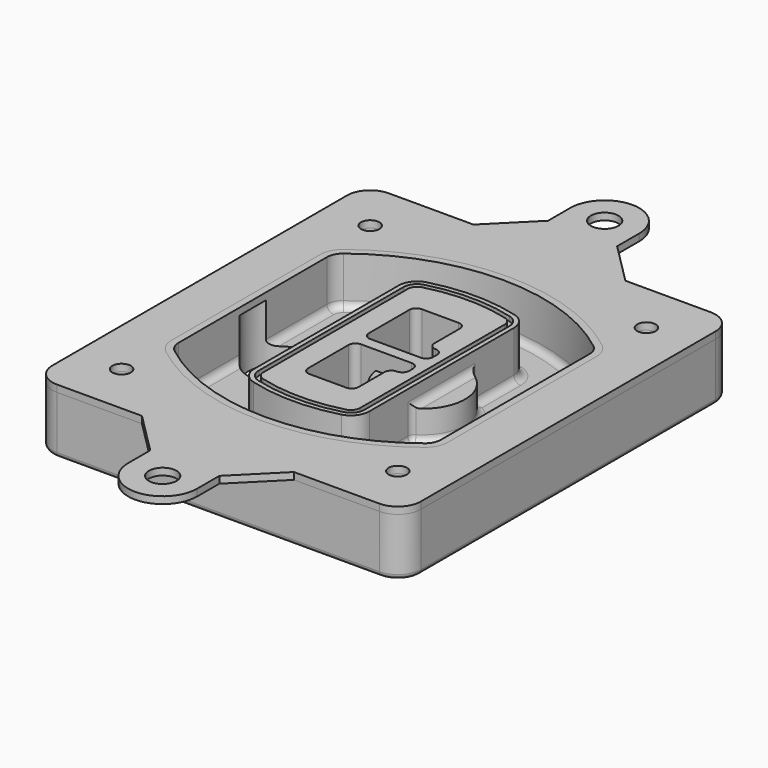
from build123d import *

# Parameters (mm, degrees)
F0_R      = 4
F1_DEPTH  = 25
F2_DEPTH  = 3
F3_DEPTH  = 18
F5_DEPTH  = 21
F6_DEPTH  = 2
F8_DEPTH  = 20
F9_DEPTH  = 16
F10_DEPTH = 25
F7_R      = 6
F7_R_2    = 4
F11_DEPTH = 6
F13_DEPTH = 9
F14_R     = 3
F15_R     = 2
F16_R     = 6
F16_R_2   = 4
F17_DEPTH = 3


with BuildPart() as f1:
    # F0 (on Top) → F1 (new body)
    with BuildSketch(Plane.XY):
        with BuildLine():
            ThreePointArc((-80, -80), (-77.0710678119, -87.0710678119), (-70, -90))
            Line((-70, -90), (70, -90))
            ThreePointArc((70, -90), (77.0710678119, -87.0710678119), (80, -80))
            Line((80, -80), (80, 80))
            ThreePointArc((80, 80), (77.0710678119, 87.0710678119), (70, 90))
            Line((70, 90), (-70, 90))
            ThreePointArc((-70, 90), (-77.0710678119, 87.0710678119), (-80, 80))
            Line((-80, 80), (-80, -80))
        make_face()
        with Locations((-60, -67.5)):
            Circle(F0_R, mode=Mode.SUBTRACT)
        with Locations((60, -67.5)):
            Circle(F0_R, mode=Mode.SUBTRACT)
        with Locations((-60, 67.5)):
            Circle(F0_R, mode=Mode.SUBTRACT)
        with BuildLine():
            ThreePointArc((-64, 40.2934422872), (-62.5820384798, 46.4328484224), (-58.6153846154, 51.3286200352))
            ThreePointArc((-58.6153846154, 51.3286200352), (0, 71.5), (58.6153846154, 51.3286200352))
            ThreePointArc((58.6153846154, 51.3286200352), (62.5820384798, 46.4328484224), (64, 40.2934422872))
            Line((64, 40.2934422872), (64, -40.2934422872))
            ThreePointArc((64, -40.2934422872), (62.5820384798, -46.4328484224), (58.6153846154, -51.3286200352))
            ThreePointArc((58.6153846154, -51.3286200352), (0, -71.5), (-58.6153846154, -51.3286200352))
            ThreePointArc((-58.6153846154, -51.3286200352), (-62.5820384798, -46.4328484224), (-64, -40.2934422872))
            Line((-64, -40.2934422872), (-64, 40.2934422872))
        make_face(mode=Mode.SUBTRACT)
        with Locations((60, 67.5)):
            Circle(F0_R, mode=Mode.SUBTRACT)
        with BuildLine():
            ThreePointArc((58.6153846154, 51.3286200352), (0, 71.5), (-58.6153846154, 51.3286200352))
            ThreePointArc((-58.6153846154, 51.3286200352), (-62.5820384798, 46.4328484224), (-64, 40.2934422872))
            Line((-64, 40.2934422872), (-64, -40.2934422872))
            ThreePointArc((-64, -40.2934422872), (-62.5820384798, -46.4328484224), (-58.6153846154, -51.3286200352))
            ThreePointArc((-58.6153846154, -51.3286200352), (0, -71.5), (58.6153846154, -51.3286200352))
            ThreePointArc((58.6153846154, -51.3286200352), (62.5820384798, -46.4328484224), (64, -40.2934422872))
            Line((64, -40.2934422872), (64, 40.2934422872))
            ThreePointArc((64, 40.2934422872), (62.5820384798, 46.4328484224), (58.6153846154, 51.3286200352))
        make_face()
        with BuildLine():
            Line((-60, -40.2934422872), (-60, 40.2934422872))
            ThreePointArc((-60, 40.2934422872), (-58.9871703427, 44.6787323838), (-56.1538461538, 48.1757121072))
            ThreePointArc((-56.1538461538, 48.1757121072), (0, 67.5), (56.1538461538, 48.1757121072))
            ThreePointArc((56.1538461538, 48.1757121072), (58.9871703427, 44.6787323838), (60, 40.2934422872))
            Line((60, 40.2934422872), (60, -40.2934422872))
            ThreePointArc((60, -40.2934422872), (58.9871703427, -44.6787323838), (56.1538461538, -48.1757121072))
            ThreePointArc((56.1538461538, -48.1757121072), (0, -67.5), (-56.1538461538, -48.1757121072))
            ThreePointArc((-56.1538461538, -48.1757121072), (-58.9871703427, -44.6787323838), (-60, -40.2934422872))
        make_face(mode=Mode.SUBTRACT)
        with BuildLine():
            ThreePointArc((-56.1538461538, 48.1757121072), (-58.9871703427, 44.6787323838), (-60, 40.2934422872))
            Line((-60, 40.2934422872), (-60, -40.2934422872))
            ThreePointArc((-60, -40.2934422872), (-58.9871703427, -44.6787323838), (-56.1538461538, -48.1757121072))
            ThreePointArc((-56.1538461538, -48.1757121072), (0, -67.5), (56.1538461538, -48.1757121072))
            ThreePointArc((56.1538461538, -48.1757121072), (58.9871703427, -44.6787323838), (60, -40.2934422872))
            Line((60, -40.2934422872), (60, 40.2934422872))
            ThreePointArc((60, 40.2934422872), (58.9871703427, 44.6787323838), (56.1538461538, 48.1757121072))
            ThreePointArc((56.1538461538, 48.1757121072), (0, 67.5), (-56.1538461538, 48.1757121072))
        make_face()
        with BuildLine():
            ThreePointArc((54.3076923077, 45.8110311612), (56.2910192399, 43.3631453548), (57, 40.2934422872))
            Line((57, 40.2934422872), (57, -40.2934422872))
            ThreePointArc((57, -40.2934422872), (56.2910192399, -43.3631453548), (54.3076923077, -45.8110311612))
            ThreePointArc((54.3076923077, -45.8110311612), (0, -64.5), (-54.3076923077, -45.8110311612))
            ThreePointArc((-54.3076923077, -45.8110311612), (-56.2910192399, -43.3631453548), (-57, -40.2934422872))
            Line((-57, -40.2934422872), (-57, 40.2934422872))
            ThreePointArc((-57, 40.2934422872), (-56.2910192399, 43.3631453548), (-54.3076923077, 45.8110311612))
            ThreePointArc((-54.3076923077, 45.8110311612), (0, 64.5), (54.3076923077, 45.8110311612))
        make_face(mode=Mode.SUBTRACT)
        with BuildLine():
            Line((57, -40.2934422872), (57, 40.2934422872))
            ThreePointArc((57, 40.2934422872), (56.2910192399, 43.3631453548), (54.3076923077, 45.8110311612))
            ThreePointArc((54.3076923077, 45.8110311612), (0, 64.5), (-54.3076923077, 45.8110311612))
            ThreePointArc((-54.3076923077, 45.8110311612), (-56.2910192399, 43.3631453548), (-57, 40.2934422872))
            Line((-57, 40.2934422872), (-57, -40.2934422872))
            ThreePointArc((-57, -40.2934422872), (-56.2910192399, -43.3631453548), (-54.3076923077, -45.8110311612))
            ThreePointArc((-54.3076923077, -45.8110311612), (0, -64.5), (54.3076923077, -45.8110311612))
            ThreePointArc((54.3076923077, -45.8110311612), (56.2910192399, -43.3631453548), (57, -40.2934422872))
        make_face()
    extrude(amount=-F1_DEPTH)

    # F0 (on Top) → F2 (join)
    with BuildSketch(Plane.XY):
        with BuildLine():
            ThreePointArc((-56.1538461538, 48.1757121072), (-58.9871703427, 44.6787323838), (-60, 40.2934422872))
            Line((-60, 40.2934422872), (-60, -40.2934422872))
            ThreePointArc((-60, -40.2934422872), (-58.9871703427, -44.6787323838), (-56.1538461538, -48.1757121072))
            ThreePointArc((-56.1538461538, -48.1757121072), (0, -67.5), (56.1538461538, -48.1757121072))
            ThreePointArc((56.1538461538, -48.1757121072), (58.9871703427, -44.6787323838), (60, -40.2934422872))
            Line((60, -40.2934422872), (60, 40.2934422872))
            ThreePointArc((60, 40.2934422872), (58.9871703427, 44.6787323838), (56.1538461538, 48.1757121072))
            ThreePointArc((56.1538461538, 48.1757121072), (0, 67.5), (-56.1538461538, 48.1757121072))
        make_face()
        with BuildLine():
            ThreePointArc((54.3076923077, 45.8110311612), (56.2910192399, 43.3631453548), (57, 40.2934422872))
            Line((57, 40.2934422872), (57, -40.2934422872))
            ThreePointArc((57, -40.2934422872), (56.2910192399, -43.3631453548), (54.3076923077, -45.8110311612))
            ThreePointArc((54.3076923077, -45.8110311612), (0, -64.5), (-54.3076923077, -45.8110311612))
            ThreePointArc((-54.3076923077, -45.8110311612), (-56.2910192399, -43.3631453548), (-57, -40.2934422872))
            Line((-57, -40.2934422872), (-57, 40.2934422872))
            ThreePointArc((-57, 40.2934422872), (-56.2910192399, 43.3631453548), (-54.3076923077, 45.8110311612))
            ThreePointArc((-54.3076923077, 45.8110311612), (0, 64.5), (54.3076923077, 45.8110311612))
        make_face(mode=Mode.SUBTRACT)
    extrude(amount=F2_DEPTH)

    # F0 (on Top) → F3 (cut)
    with BuildSketch(Plane.XY):
        with BuildLine():
            Line((57, -40.2934422872), (57, 40.2934422872))
            ThreePointArc((57, 40.2934422872), (56.2910192399, 43.3631453548), (54.3076923077, 45.8110311612))
            ThreePointArc((54.3076923077, 45.8110311612), (0, 64.5), (-54.3076923077, 45.8110311612))
            ThreePointArc((-54.3076923077, 45.8110311612), (-56.2910192399, 43.3631453548), (-57, 40.2934422872))
            Line((-57, 40.2934422872), (-57, -40.2934422872))
            ThreePointArc((-57, -40.2934422872), (-56.2910192399, -43.3631453548), (-54.3076923077, -45.8110311612))
            ThreePointArc((-54.3076923077, -45.8110311612), (0, -64.5), (54.3076923077, -45.8110311612))
            ThreePointArc((54.3076923077, -45.8110311612), (56.2910192399, -43.3631453548), (57, -40.2934422872))
        make_face()
    extrude(amount=-F3_DEPTH, mode=Mode.SUBTRACT)

    # F4 (on face) → F5 (join, through all)
    with BuildSketch(Plane.XY.offset(3)):
        with BuildLine():
            ThreePointArc((-25, -39.2465276821), (-23.3511545998, -44.1109737193), (-19.0842911877, -46.9702398883))
            ThreePointArc((-19.0842911877, -46.9702398883), (0, -49.5), (19.0842911877, -46.9702398883))
            ThreePointArc((19.0842911877, -46.9702398883), (23.3511545998, -44.1109737193), (25, -39.2465276821))
            Line((25, -39.2465276821), (25, 39.2465276821))
            ThreePointArc((25, 39.2465276821), (23.3511545998, 44.1109737193), (19.0842911877, 46.9702398883))
            ThreePointArc((19.0842911877, 46.9702398883), (0, 49.5), (-19.0842911877, 46.9702398883))
            ThreePointArc((-19.0842911877, 46.9702398883), (-23.3511545998, 44.1109737193), (-25, 39.2465276821))
            Line((-25, 39.2465276821), (-25, -39.2465276821))
        make_face()
        with BuildLine():
            ThreePointArc((18.5632183908, 45.0393118368), (21.7633659499, 42.89486221), (23, 39.2465276821))
            Line((23, 39.2465276821), (23, -39.2465276821))
            ThreePointArc((23, -39.2465276821), (21.7633659499, -42.89486221), (18.5632183908, -45.0393118368))
            ThreePointArc((18.5632183908, -45.0393118368), (0, -47.5), (-18.5632183908, -45.0393118368))
            ThreePointArc((-18.5632183908, -45.0393118368), (-21.7633659499, -42.89486221), (-23, -39.2465276821))
            Line((-23, -39.2465276821), (-23, 39.2465276821))
            ThreePointArc((-23, 39.2465276821), (-21.7633659499, 42.89486221), (-18.5632183908, 45.0393118368))
            ThreePointArc((-18.5632183908, 45.0393118368), (0, 47.5), (18.5632183908, 45.0393118368))
        make_face(mode=Mode.SUBTRACT)
        with BuildLine():
            Line((23, -39.2465276821), (23, 39.2465276821))
            ThreePointArc((23, 39.2465276821), (21.7633659499, 42.89486221), (18.5632183908, 45.0393118368))
            ThreePointArc((18.5632183908, 45.0393118368), (0, 47.5), (-18.5632183908, 45.0393118368))
            ThreePointArc((-18.5632183908, 45.0393118368), (-21.7633659499, 42.89486221), (-23, 39.2465276821))
            Line((-23, 39.2465276821), (-23, -39.2465276821))
            ThreePointArc((-23, -39.2465276821), (-21.7633659499, -42.89486221), (-18.5632183908, -45.0393118368))
            ThreePointArc((-18.5632183908, -45.0393118368), (0, -47.5), (18.5632183908, -45.0393118368))
            ThreePointArc((18.5632183908, -45.0393118368), (21.7633659499, -42.89486221), (23, -39.2465276821))
        make_face()
        with BuildLine():
            ThreePointArc((18.0421455939, 43.1083837852), (20.1755772999, 41.6787507007), (21, 39.2465276821))
            Line((21, 39.2465276821), (21, -39.2465276821))
            ThreePointArc((21, -39.2465276821), (20.1755772999, -41.6787507007), (18.0421455939, -43.1083837852))
            ThreePointArc((18.0421455939, -43.1083837852), (0, -45.5), (-18.0421455939, -43.1083837852))
            ThreePointArc((-18.0421455939, -43.1083837852), (-20.1755772999, -41.6787507007), (-21, -39.2465276821))
            Line((-21, -39.2465276821), (-21, 39.2465276821))
            ThreePointArc((-21, 39.2465276821), (-20.1755772999, 41.6787507007), (-18.0421455939, 43.1083837852))
            ThreePointArc((-18.0421455939, 43.1083837852), (0, 45.5), (18.0421455939, 43.1083837852))
        make_face(mode=Mode.SUBTRACT)
        with BuildLine():
            Line((21, -39.2465276821), (21, 39.2465276821))
            ThreePointArc((21, 39.2465276821), (20.1755772999, 41.6787507007), (18.0421455939, 43.1083837852))
            ThreePointArc((18.0421455939, 43.1083837852), (0, 45.5), (-18.0421455939, 43.1083837852))
            ThreePointArc((-18.0421455939, 43.1083837852), (-20.1755772999, 41.6787507007), (-21, 39.2465276821))
            Line((-21, 39.2465276821), (-21, -39.2465276821))
            ThreePointArc((-21, -39.2465276821), (-20.1755772999, -41.6787507007), (-18.0421455939, -43.1083837852))
            ThreePointArc((-18.0421455939, -43.1083837852), (0, -45.5), (18.0421455939, -43.1083837852))
            ThreePointArc((18.0421455939, -43.1083837852), (20.1755772999, -41.6787507007), (21, -39.2465276821))
        make_face()
        with BuildLine():
            Line((-8, -2.5), (14, -2.5))
            ThreePointArc((14, -2.5), (16.1213203436, -3.3786796564), (17, -5.5))
            Line((17, -5.5), (17, -7.5))
            ThreePointArc((17, -7.5), (16.1213203436, -9.6213203436), (14, -10.5))
            ThreePointArc((14, -10.5), (11.8786796564, -11.3786796564), (11, -13.5))
            Line((11, -13.5), (11, -27.5))
            ThreePointArc((11, -27.5), (10.1213203436, -29.6213203436), (8, -30.5))
            Line((8, -30.5), (-8, -30.5))
            ThreePointArc((-8, -30.5), (-10.1213203436, -29.6213203436), (-11, -27.5))
            Line((-11, -27.5), (-11, -5.5))
            ThreePointArc((-11, -5.5), (-10.1213203436, -3.3786796564), (-8, -2.5))
        make_face(mode=Mode.SUBTRACT)
        with BuildLine():
            ThreePointArc((-8, 2.5), (-10.1213203436, 3.3786796564), (-11, 5.5))
            Line((-11, 5.5), (-11, 27.5))
            ThreePointArc((-11, 27.5), (-10.1213203436, 29.6213203436), (-8, 30.5))
            Line((-8, 30.5), (8, 30.5))
            ThreePointArc((8, 30.5), (10.1213203436, 29.6213203436), (11, 27.5))
            Line((11, 27.5), (11, 13.5))
            ThreePointArc((11, 13.5), (11.8786796564, 11.3786796564), (14, 10.5))
            ThreePointArc((14, 10.5), (16.1213203436, 9.6213203436), (17, 7.5))
            Line((17, 7.5), (17, 5.5))
            ThreePointArc((17, 5.5), (16.1213203436, 3.3786796564), (14, 2.5))
            Line((14, 2.5), (-8, 2.5))
        make_face(mode=Mode.SUBTRACT)
    extrude(amount=-F5_DEPTH)

    # F4 (on face) → F6 (cut)
    with BuildSketch(Plane.XY.offset(3)):
        with BuildLine():
            Line((23, -39.2465276821), (23, 39.2465276821))
            ThreePointArc((23, 39.2465276821), (21.7633659499, 42.89486221), (18.5632183908, 45.0393118368))
            ThreePointArc((18.5632183908, 45.0393118368), (0, 47.5), (-18.5632183908, 45.0393118368))
            ThreePointArc((-18.5632183908, 45.0393118368), (-21.7633659499, 42.89486221), (-23, 39.2465276821))
            Line((-23, 39.2465276821), (-23, -39.2465276821))
            ThreePointArc((-23, -39.2465276821), (-21.7633659499, -42.89486221), (-18.5632183908, -45.0393118368))
            ThreePointArc((-18.5632183908, -45.0393118368), (0, -47.5), (18.5632183908, -45.0393118368))
            ThreePointArc((18.5632183908, -45.0393118368), (21.7633659499, -42.89486221), (23, -39.2465276821))
        make_face()
        with BuildLine():
            ThreePointArc((18.0421455939, 43.1083837852), (20.1755772999, 41.6787507007), (21, 39.2465276821))
            Line((21, 39.2465276821), (21, -39.2465276821))
            ThreePointArc((21, -39.2465276821), (20.1755772999, -41.6787507007), (18.0421455939, -43.1083837852))
            ThreePointArc((18.0421455939, -43.1083837852), (0, -45.5), (-18.0421455939, -43.1083837852))
            ThreePointArc((-18.0421455939, -43.1083837852), (-20.1755772999, -41.6787507007), (-21, -39.2465276821))
            Line((-21, -39.2465276821), (-21, 39.2465276821))
            ThreePointArc((-21, 39.2465276821), (-20.1755772999, 41.6787507007), (-18.0421455939, 43.1083837852))
            ThreePointArc((-18.0421455939, 43.1083837852), (0, 45.5), (18.0421455939, 43.1083837852))
        make_face(mode=Mode.SUBTRACT)
    extrude(amount=-F6_DEPTH, mode=Mode.SUBTRACT)

    # F7 (on face) → F8 (join)
    with BuildSketch(Plane(origin=(0, 0, -25), x_dir=(1, 0, 0), z_dir=(0, 0, -1))):
        with BuildLine():
            ThreePointArc((3.28842436, 0), (16.7567035675, 13.4682792075), (30.224982775, 0))
            Line((30.224982775, 0), (35.224982775, 0))
            ThreePointArc((35.224982775, 0), (16.7567035675, 18.4682792075), (-1.71157564, 0))
            Line((-1.71157564, 0), (3.28842436, 0))
        make_face()
        with BuildLine():
            Line((3.28842436, 0), (30.224982775, 0))
            ThreePointArc((30.224982775, 0), (16.7567035675, 13.4682792075), (3.28842436, 0))
        make_face()
        with BuildLine():
            ThreePointArc((3.28842436, 0), (16.7567035675, -13.4682792075), (30.224982775, 0))
            Line((30.224982775, 0), (3.28842436, 0))
        make_face()
        with BuildLine():
            Line((35.224982775, 0), (30.224982775, 0))
            ThreePointArc((30.224982775, 0), (16.7567035675, -13.4682792075), (3.28842436, 0))
            Line((3.28842436, 0), (-1.71157564, 0))
            ThreePointArc((-1.71157564, 0), (16.7567035675, -18.4682792075), (35.224982775, 0))
        make_face()
    extrude(amount=-F8_DEPTH)

    # F7 (on face) → F9 (cut)
    with BuildSketch(Plane(origin=(0, 0, -25), x_dir=(1, 0, 0), z_dir=(0, 0, -1))):
        with BuildLine():
            Line((3.28842436, 0), (30.224982775, 0))
            ThreePointArc((30.224982775, 0), (16.7567035675, 13.4682792075), (3.28842436, 0))
        make_face()
        with BuildLine():
            ThreePointArc((3.28842436, 0), (16.7567035675, -13.4682792075), (30.224982775, 0))
            Line((30.224982775, 0), (3.28842436, 0))
        make_face()
    extrude(amount=-F9_DEPTH, mode=Mode.SUBTRACT)

    # F7 (on face) → F10 (cut)
    with BuildSketch(Plane(origin=(0, 0, -25), x_dir=(1, 0, 0), z_dir=(0, 0, -1))):
        with BuildLine():
            Line((-59.0318229325, 0), (-32.0952645175, 0))
            ThreePointArc((-32.0952645175, 0), (-45.563543725, 13.4682792075), (-59.0318229325, 0))
        make_face()
        with BuildLine():
            ThreePointArc((-59.0318229325, 0), (-45.563543725, -13.4682792075), (-32.0952645175, 0))
            Line((-32.0952645175, 0), (-59.0318229325, 0))
        make_face()
    extrude(amount=-F10_DEPTH, mode=Mode.SUBTRACT)

    # F7 (on face) → F11 (cut)
    with BuildSketch(Plane(origin=(0, 0, -25), x_dir=(1, 0, 0), z_dir=(0, 0, -1))):
        with Locations((60, -67.5)):
            Circle(F7_R)
        with Locations((60, -67.5)):
            Circle(F7_R_2, mode=Mode.SUBTRACT)
        with Locations((60, -67.5)):
            Circle(F7_R)
        with Locations((60, -67.5)):
            Circle(F7_R_2, mode=Mode.SUBTRACT)
        with Locations((-60, -67.5)):
            Circle(F7_R)
        with Locations((-60, -67.5)):
            Circle(F7_R_2, mode=Mode.SUBTRACT)
        with Locations((-60, -67.5)):
            Circle(F7_R)
        with Locations((-60, -67.5)):
            Circle(F7_R_2, mode=Mode.SUBTRACT)
        with Locations((-60, 67.5)):
            Circle(F7_R)
        with Locations((-60, 67.5)):
            Circle(F7_R_2, mode=Mode.SUBTRACT)
        with Locations((-60, 67.5)):
            Circle(F7_R)
        with Locations((-60, 67.5)):
            Circle(F7_R_2, mode=Mode.SUBTRACT)
        with Locations((60, 67.5)):
            Circle(F7_R)
        with Locations((60, 67.5)):
            Circle(F7_R_2, mode=Mode.SUBTRACT)
        with Locations((60, 67.5)):
            Circle(F7_R)
        with Locations((60, 67.5)):
            Circle(F7_R_2, mode=Mode.SUBTRACT)
    extrude(amount=-F11_DEPTH, mode=Mode.SUBTRACT)

    # F12 (on face) → F13 (cut, through all)
    with BuildSketch(Plane(origin=(0, 0, -9), x_dir=(1, 0, 0), z_dir=(0, 0, -1))):
        with BuildLine():
            Line((11, 13.5), (11, 17.5481537753))
            ThreePointArc((11, 17.5481537753), (2.5696536419, 11.8239143813), (-1.5415842455, 2.5))
            Line((-1.5415842455, 2.5), (3.5224848595, 2.5))
            ThreePointArc((3.5224848595, 2.5), (6.1857188154, 8.3455872281), (11.2536447004, 12.2927168648))
            ThreePointArc((11.2536447004, 12.2927168648), (11.0640958889, 12.8831798879), (11, 13.5))
        make_face()
        with BuildLine():
            ThreePointArc((11.2536447004, -12.2927168648), (6.1857188154, -8.3455872281), (3.5224848595, -2.5))
            Line((3.5224848595, -2.5), (-1.5415842455, -2.5))
            ThreePointArc((-1.5415842455, -2.5), (2.5696536419, -11.8239143813), (11, -17.5481537753))
            Line((11, -17.5481537753), (11, -13.5))
            ThreePointArc((11, -13.5), (11.0640958889, -12.8831798879), (11.2536447004, -12.2927168648))
        make_face()
        with BuildLine():
            ThreePointArc((11.2536447004, 12.2927168648), (6.1857188154, 8.3455872281), (3.5224848595, 2.5))
            Line((3.5224848595, 2.5), (14, 2.5))
            ThreePointArc((14, 2.5), (16.1213203436, 3.3786796564), (17, 5.5))
            Line((17, 5.5), (17, 7.5))
            ThreePointArc((17, 7.5), (16.1213203436, 9.6213203436), (14, 10.5))
            ThreePointArc((14, 10.5), (12.3601599782, 10.9878446101), (11.2536447004, 12.2927168648))
        make_face()
        with BuildLine():
            Line((14, -2.5), (3.5224848595, -2.5))
            ThreePointArc((3.5224848595, -2.5), (6.1857188154, -8.3455872281), (11.2536447004, -12.2927168648))
            ThreePointArc((11.2536447004, -12.2927168648), (12.3601599782, -10.9878446101), (14, -10.5))
            ThreePointArc((14, -10.5), (16.1213203436, -9.6213203436), (17, -7.5))
            Line((17, -7.5), (17, -5.5))
            ThreePointArc((17, -5.5), (16.1213203436, -3.3786796564), (14, -2.5))
        make_face()
    extrude(amount=F13_DEPTH, mode=Mode.SUBTRACT)

    # F14
    f14_edges = [f1.edges().sort_by_distance(p)[0] for p in [
        (-57, -23.703476, -18),
        (-57, 23.703476, -18),
        (25, 0, -5),
        (25, 16.526506, -11.5),
        (25, -16.526506, -11.5),
        (25, -27.886517, -18),
        (35.224983, 0, -18),
    ]]
    fillet(f14_edges, radius=F14_R)

    # F15
    f15_edges = [f1.edges().sort_by_distance(p)[0] for p in [
        (0, -90, -25),
    ]]
    fillet(f15_edges, radius=F15_R)


with BuildPart() as f17:
    # F16 (on face) → F17 (new body, through all)
    with BuildSketch(Plane.XY):
        with BuildLine():
            Line((32.8628884926, -90), (-33.1371115074, -90))
            Line((-33.1371115074, -90), (-15.1371115074, -108))
            Line((-15.1371115074, -108), (-15.1371115074, -120))
            ThreePointArc((-15.1371115074, -120), (-0.1371115074, -135), (14.8628884926, -120))
            Line((14.8628884926, -120), (14.8628884926, -108))
            Line((14.8628884926, -108), (32.8628884926, -90))
        make_face()
        with Locations((-0.1371115074, -120)):
            Circle(F16_R, mode=Mode.SUBTRACT)
        with BuildLine():
            Line((-15.1371115074, 108), (-33.1371115074, 90))
            Line((-33.1371115074, 90), (32.8628884926, 90))
            Line((32.8628884926, 90), (14.8628884926, 108))
            Line((14.8628884926, 108), (14.8628884926, 120))
            ThreePointArc((14.8628884926, 120), (-0.1371115074, 135), (-15.1371115074, 120))
            Line((-15.1371115074, 120), (-15.1371115074, 108))
        make_face()
        with Locations((-0.1371115074, 120)):
            Circle(F16_R, mode=Mode.SUBTRACT)
        with BuildLine():
            Line((-33.1371115074, 90), (-70, 90))
            ThreePointArc((-70, 90), (-77.0710678119, 87.0710678119), (-80, 80))
            Line((-80, 80), (-80, -80))
            ThreePointArc((-80, -80), (-77.0710678119, -87.0710678119), (-70, -90))
            Line((-70, -90), (-33.1371115074, -90))
            Line((-33.1371115074, -90), (32.8628884926, -90))
            Line((32.8628884926, -90), (70, -90))
            ThreePointArc((70, -90), (77.0710678119, -87.0710678119), (80, -80))
            Line((80, -80), (80, 80))
            ThreePointArc((80, 80), (77.0710678119, 87.0710678119), (70, 90))
            Line((70, 90), (32.8628884926, 90))
            Line((32.8628884926, 90), (-33.1371115074, 90))
        make_face()
        with Locations((-60, -67.5)):
            Circle(F16_R_2, mode=Mode.SUBTRACT)
        with Locations((60, -67.5)):
            Circle(F16_R_2, mode=Mode.SUBTRACT)
        with Locations((-60, 67.5)):
            Circle(F16_R_2, mode=Mode.SUBTRACT)
        with BuildLine():
            ThreePointArc((-56.1538461538, 48.1757121072), (0, 67.5), (56.1538461538, 48.1757121072))
            ThreePointArc((56.1538461538, 48.1757121072), (58.9871703427, 44.6787323838), (60, 40.2934422872))
            Line((60, 40.2934422872), (60, -40.2934422872))
            ThreePointArc((60, -40.2934422872), (58.9871703427, -44.6787323838), (56.1538461538, -48.1757121072))
            ThreePointArc((56.1538461538, -48.1757121072), (0, -67.5), (-56.1538461538, -48.1757121072))
            ThreePointArc((-56.1538461538, -48.1757121072), (-58.9871703427, -44.6787323838), (-60, -40.2934422872))
            Line((-60, -40.2934422872), (-60, 40.2934422872))
            ThreePointArc((-60, 40.2934422872), (-58.9871703427, 44.6787323838), (-56.1538461538, 48.1757121072))
        make_face(mode=Mode.SUBTRACT)
        with Locations((60, 67.5)):
            Circle(F16_R_2, mode=Mode.SUBTRACT)
    extrude(amount=F17_DEPTH)


solid = Compound([f1.part, f17.part])
